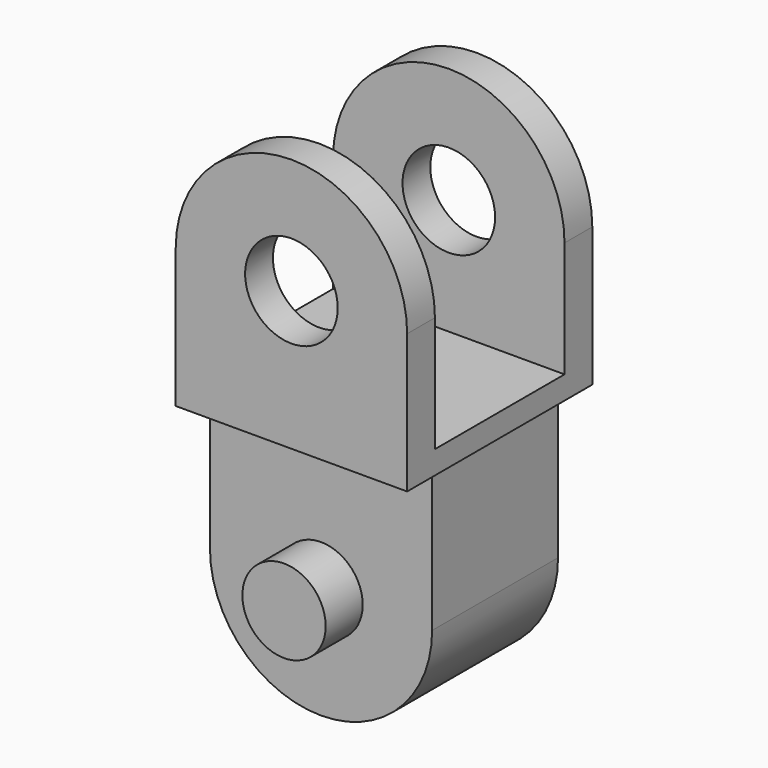
from build123d import *

# Parameters (mm, degrees)
PAD_DEPTH       = 34
SKETCH001_R     = 18
PAD001_DEPTH    = 20
SKETCH002_W     = 100
SKETCH002_H     = 100
PAD002_DEPTH    = 20
PAD003_DEPTH    = 50
SKETCH004_R     = 20
POCKET_DEPTH    = 100
SKETCH005_W     = 100
SKETCH005_H     = 101
POCKET001_DEPTH = 35
SKETCH006_W     = 100
SKETCH006_H     = 10
POCKET002_DEPTH = 16
SKETCH007_W     = 10
SKETCH007_H     = 68
POCKET003_DEPTH = 2


with BuildPart() as part:
    # Sketch → Pad (new body, symmetric)
    with BuildSketch(Plane.XZ):
        with BuildLine():
            ThreePointArc((-48, 0), (0, -48), (48, 0))
            Line((48, 50), (48, 0))
            Line((-48, 50), (48, 50))
            Line((-48, 0), (-48, 50))
        make_face()
    extrude(amount=PAD_DEPTH, both=True)

    # Sketch001 (on Face6 of Pad) → Pad001 (join)
    with BuildSketch(Plane.XZ.offset(34)):
        Circle(SKETCH001_R)
    pad001 = extrude(amount=PAD001_DEPTH)

    # Mirrored: Pad001 across XZ
    add(pad001.mirror(Plane.XZ))

    # Sketch002 (on Face6 of Mirrored) → Pad002 (join)
    with BuildSketch(Plane(origin=(0, 0, 50), x_dir=(-1, 0, 0), z_dir=(0, 0, 1))):
        Rectangle(SKETCH002_W, SKETCH002_H)
    extrude(amount=PAD002_DEPTH)

    # Sketch003 → Pad003 (join, symmetric)
    with BuildSketch(Plane.XZ):
        with BuildLine():
            ThreePointArc((50, 120), (0, 170), (-50, 120))
            Line((-50, 70), (-50, 120))
            Line((50, 70), (-50, 70))
            Line((50, 120), (50, 70))
        make_face()
    extrude(amount=PAD003_DEPTH, both=True)

    # Sketch004 (on Face5 of Pad003) → Pocket (cut)
    with BuildSketch(Plane.XZ.offset(50)):
        with Locations((0, 120)):
            Circle(SKETCH004_R)
    extrude(amount=-POCKET_DEPTH, mode=Mode.SUBTRACT)

    # Sketch005 → Pocket001 (cut, symmetric)
    with BuildSketch(Plane.XZ):
        with Locations((0, 120.5)):
            Rectangle(SKETCH005_W, SKETCH005_H)
    extrude(amount=POCKET001_DEPTH, both=True, mode=Mode.SUBTRACT)

    # Sketch006 (on Face1 of Pocket001) → Pocket002 (cut)
    with BuildSketch(Plane.XZ.offset(50)):
        with Locations((0, 55)):
            Rectangle(SKETCH006_W, SKETCH006_H)
    pocket002 = extrude(amount=-POCKET002_DEPTH, mode=Mode.SUBTRACT)

    # Mirrored001: Pocket002 across XZ
    add(pocket002.mirror(Plane.XZ), mode=Mode.SUBTRACT)

    # Sketch007 (on Face3 of Mirrored001) → Pocket003 (cut)
    with BuildSketch(Plane(origin=(-50, 0, 0), x_dir=(0, 0, -1), z_dir=(-1, 0, 0))):
        with Locations((-55, 0)):
            Rectangle(SKETCH007_W, SKETCH007_H)
    pocket003 = extrude(amount=-POCKET003_DEPTH, mode=Mode.SUBTRACT)

    # Mirrored002: Pocket003 across YZ
    add(pocket003.mirror(Plane.YZ), mode=Mode.SUBTRACT)


solid = part.part
